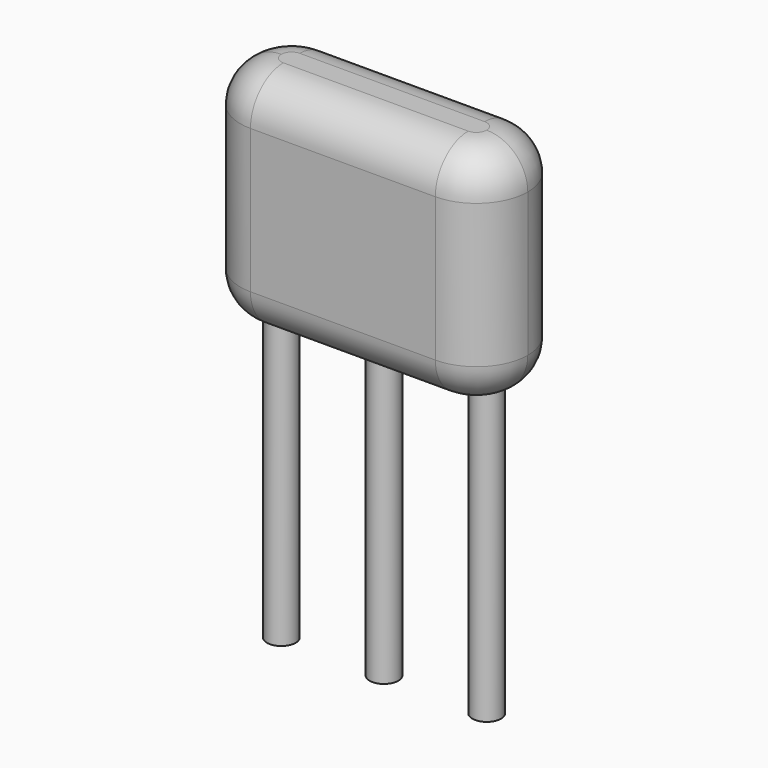
from build123d import *

# Parameters (mm, degrees)
SKETCH_R     = 0.35
PAD_DEPTH    = 8
PAD002_DEPTH = 5.5
FILLET_R     = 1
FILLET001_R  = 1


with BuildPart() as pad:
    # Sketch → Pad (new body)
    with BuildSketch(Plane.XY.offset(4)):
        Circle(SKETCH_R)
        with Locations((5, 0)):
            Circle(SKETCH_R)
        with Locations((2.5, 0)):
            Circle(SKETCH_R)
    extrude(amount=-PAD_DEPTH)


with BuildPart() as fillet001:
    # Sketch003 → Pad002 (new body)
    with BuildSketch(Plane.XY.offset(3)):
        with BuildLine():
            Line((0.25, 1.25), (4.75, 1.25))
            ThreePointArc((6, 0), (5.633883, 0.883883), (4.75, 1.25))
            ThreePointArc((4.75, -1.25), (5.633883, -0.883883), (6, 0))
            Line((4.75, -1.25), (0.25, -1.25))
            ThreePointArc((-1, 0), (-0.633883, -0.883883), (0.25, -1.25))
            ThreePointArc((0.25, 1.25), (-0.633883, 0.883883), (-1, 0))
        make_face()
    extrude(amount=PAD002_DEPTH)

    # Fillet
    fillet_edges = [fillet001.edges().sort_by_distance(p)[0] for p in [
        (2.5, 1.25, 8.5),
        (-0.633883, 0.883883, 8.5),
        (-0.633883, -0.883883, 8.5),
        (2.5, -1.25, 8.5),
        (5.633883, -0.883883, 8.5),
        (5.633883, 0.883883, 8.5),
    ]]
    fillet(fillet_edges, radius=FILLET_R)

    # Fillet001
    fillet001_edges = [fillet001.edges().sort_by_distance(p)[0] for p in [
        (5.633883, -0.883883, 3),
        (5.633883, 0.883883, 3),
        (2.5, 1.25, 3),
        (2.5, -1.25, 3),
        (-0.633883, -0.883883, 3),
        (-0.633883, 0.883883, 3),
    ]]
    fillet(fillet001_edges, radius=FILLET001_R)


solid = Compound([pad.part, fillet001.part])
